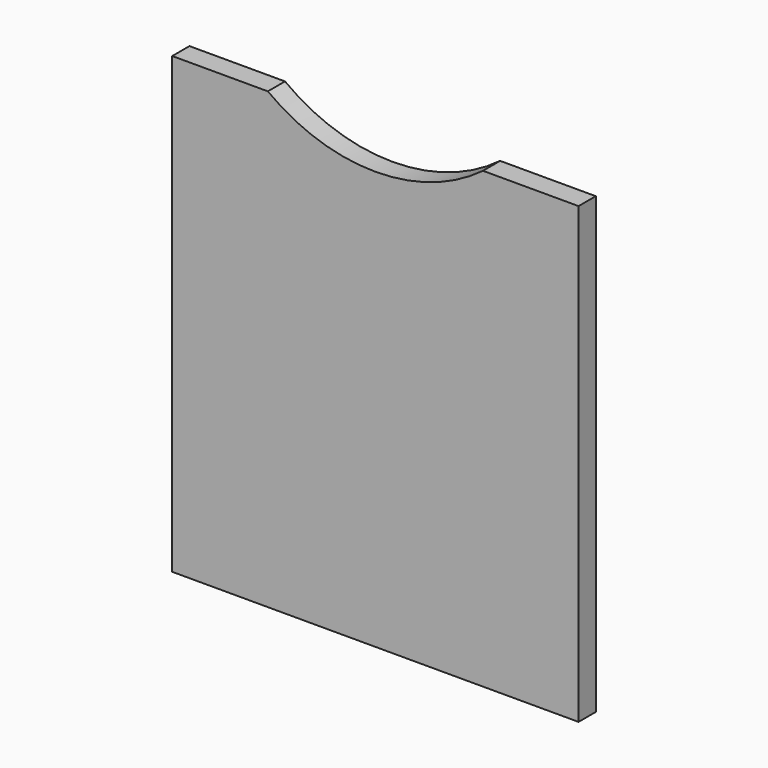
from build123d import *

# Parameters (mm, degrees)
PAD_DEPTH = 18


with BuildPart() as part:
    # Sketch → Pad (new body)
    with BuildSketch(Plane.XZ):
        with BuildLine():
            Line((-170, 0), (170, 0))
            Line((170, 0), (170, 380))
            Line((170, 380), (90, 380))
            ThreePointArc((-90, 380), (0, 350), (90, 380))
            Line((-90, 380), (-170, 380))
            Line((-170, 380), (-170, 0))
        make_face()
    extrude(amount=PAD_DEPTH)


solid = part.part
